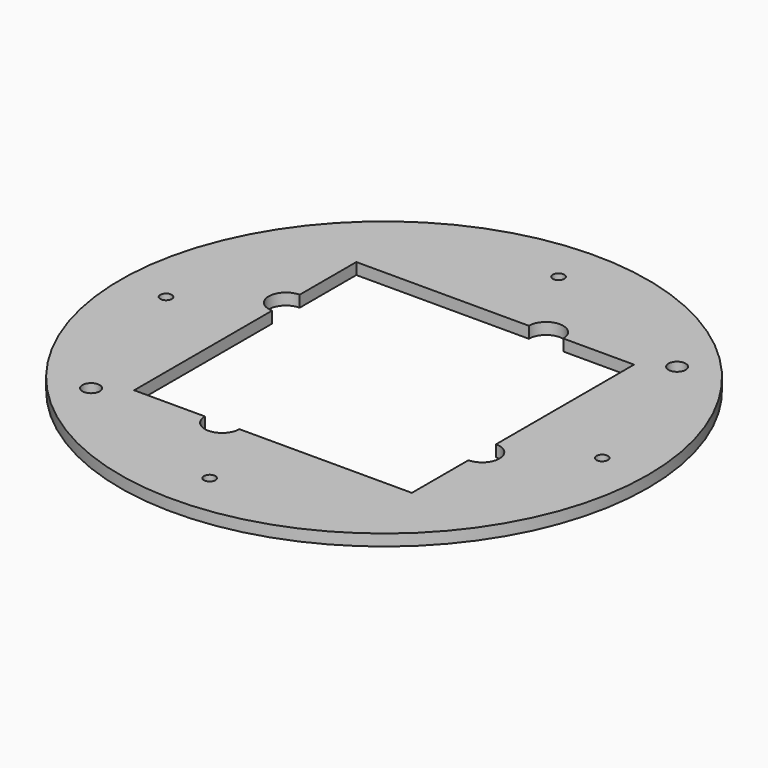
from build123d import *

# Parameters (mm, degrees)
F0_R     = 146.05
F1_DEPTH = 6.35
F3_D     = 6.35
F4_D     = 9.525
F6_DEPTH = 6.351


with BuildPart() as f1:
    # F0 (on Top) → F1 (new body)
    with BuildSketch(Plane.XY):
        Circle(F0_R)
    extrude(amount=F1_DEPTH)

    # F3 (through all)
    with Locations(Plane.XY.offset(6.35)):
        with Locations((120.65, 0), (0, -120.65), (-120.65, 0), (0, 120.65)):
            Hole(F3_D / 2)

    # F4 (through all)
    with Locations(Plane.XY.offset(6.35)):
        with Locations((-92.586648, -86.929354), (92.586648, 86.929354)):
            Hole(F4_D / 2)

    # F5 (on face) → F6 (cut, through all)
    with BuildSketch(Plane.XY.offset(6.35)):
        with BuildLine():
            Line((76.835, -18.620527), (76.835, 76.835))
            Line((76.835, 76.835), (37.670527, 76.835))
            ThreePointArc((37.670527, 76.835), (28.145527, 86.36), (18.620527, 76.835))
            Line((18.620527, 76.835), (-76.835, 76.835))
            Line((-76.835, 76.835), (-76.835, 37.670527))
            ThreePointArc((-76.835, 37.670527), (-86.36, 28.145527), (-76.835, 18.620527))
            Line((-76.835, 18.620527), (-76.835, -76.835))
            Line((-76.835, -76.835), (-37.670527, -76.835))
            ThreePointArc((-37.670527, -76.835), (-28.145527, -86.36), (-18.620527, -76.835))
            Line((-18.620527, -76.835), (76.835, -76.835))
            Line((76.835, -76.835), (76.835, -37.670527))
            ThreePointArc((76.835, -37.670527), (86.36, -28.145527), (76.835, -18.620527))
        make_face()
    extrude(amount=-F6_DEPTH, mode=Mode.SUBTRACT)


solid = f1.part
